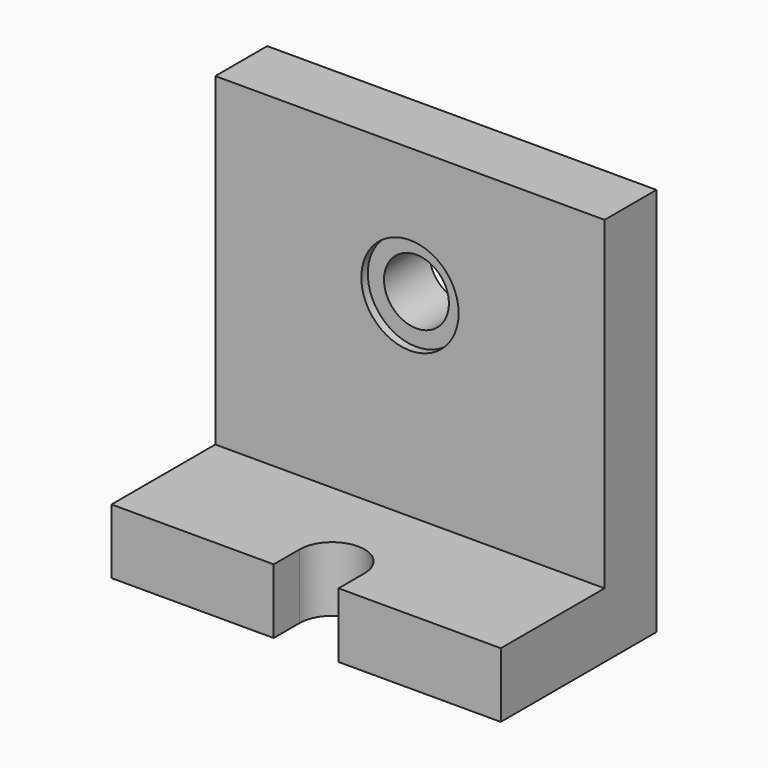
from build123d import *

# Parameters (mm, degrees)
F1_DEPTH = 76.2
F2_R     = 12.7
F3_DEPTH = 76.201
F5_DEPTH = 25.401
F6_R     = 19.05
F6_R_2   = 12.7
F7_DEPTH = 3.175


with BuildPart() as f1:
    # F0 (on Right) → F1 (new body, symmetric)
    with BuildSketch(Plane.YZ):
        Polygon((-76.2, 0), (0, 0), (0, 152.4), (-25.4, 152.4), (-25.4, 25.4), (-76.2, 25.4), align=None)
    extrude(amount=F1_DEPTH, both=True)

    # F2 (on face) → F3 (cut, through all)
    with BuildSketch(Plane(origin=(0, 0, 0), x_dir=(-1, 0, 0), z_dir=(0, 1, 0))):
        with Locations((0, 101.6)):
            Circle(F2_R)
    extrude(amount=-F3_DEPTH, mode=Mode.SUBTRACT)

    # F4 (on face) → F5 (cut, through all)
    with BuildSketch(Plane.XY.offset(25.4)):
        with BuildLine():
            Line((-12.7, -63.5), (-12.7, -76.2))
            Line((-12.7, -76.2), (12.7, -76.2))
            Line((12.7, -76.2), (12.7, -63.5))
            ThreePointArc((12.7, -63.5), (0, -50.8), (-12.7, -63.5))
        make_face()
    extrude(amount=-F5_DEPTH, mode=Mode.SUBTRACT)

    # F6 (on face) → F7 (cut, symmetric)
    with BuildSketch(Plane.XZ.offset(25.4)):
        with Locations((0, 101.6)):
            Circle(F6_R)
        with Locations((0, 101.6)):
            Circle(F6_R_2, mode=Mode.SUBTRACT)
    extrude(amount=F7_DEPTH, both=True, mode=Mode.SUBTRACT)


solid = f1.part
